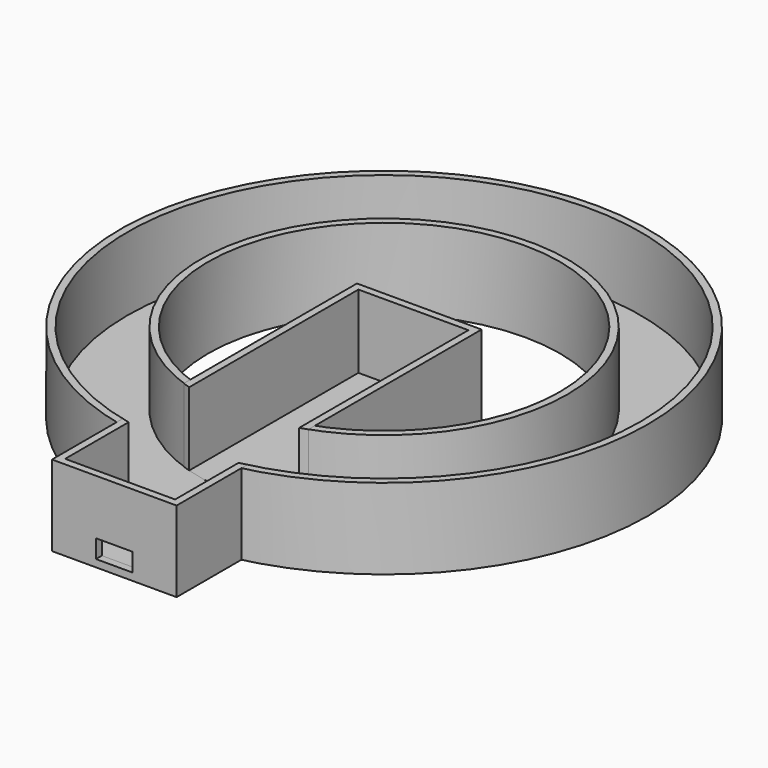
from build123d import *

# Parameters (mm, degrees)
F0_R        = 72
F0_R_2      = 70
F1_DEPTH    = 22
F0_R_3      = 50
F0_R_4      = 48
F2_R        = 70
F2_R_2      = 50
F3_DEPTH    = 2
F4_W        = 34
F4_H        = 104
F4_W_2      = 30
F4_H_2      = 100
F5_DEPTH    = 22
F6_W        = 30
F6_H        = 100
F7_DEPTH    = 2
F8_W        = 30
F8_H        = 20
F9_DEPTH    = 75
F10_W       = 10
F10_H       = 5
F11_DEPTH   = 100
F12_R       = 70
F12_R_2     = 50
F3_FACE_R   = 70
F3_FACE_R_2 = 50
F13_DEPTH   = 25
F14_R       = 70
F14_R_2     = 50
F15_DEPTH   = 2


with BuildPart() as f1:
    # F0 (on Top) → F1 (new body)
    with BuildSketch(Plane.XY):
        Circle(F0_R)
        Circle(F0_R_2, mode=Mode.SUBTRACT)
    extrude(amount=F1_DEPTH)


with BuildPart() as f1b:
    # F0 (on Top) → F1, piece 2 (new body)
    with BuildSketch(Plane.XY):
        Circle(F0_R_3)
        Circle(F0_R_4, mode=Mode.SUBTRACT)
    extrude(amount=F1_DEPTH)


with BuildPart() as f3:
    # F2 (on Top) → F3 (new body)
    with BuildSketch(Plane.XY):
        Circle(F2_R)
        Circle(F2_R_2, mode=Mode.SUBTRACT)
    extrude(amount=F3_DEPTH)


with BuildPart() as f5:
    # F4 (on Top) → F5 (new body)
    with BuildSketch(Plane.XY):
        with Locations((0, -40)):
            Rectangle(F4_W, F4_H)
        with Locations((0, -40)):
            Rectangle(F4_W_2, F4_H_2, mode=Mode.SUBTRACT)
    extrude(amount=F5_DEPTH)

    # F10 (on Front) → F11 (cut)
    with BuildSketch(Plane.XZ):
        with Locations((0, 4.5)):
            Rectangle(F10_W, F10_H)
    extrude(amount=F11_DEPTH, mode=Mode.SUBTRACT)


with BuildPart() as f7:
    # F6 (on Top) → F7 (new body)
    with BuildSketch(Plane.XY):
        with Locations((0, -40)):
            Rectangle(F6_W, F6_H)
    extrude(amount=F7_DEPTH)


with BuildPart() as f9_tool:
    # F8 (on Front) → F9 (new body)
    with BuildSketch(Plane.XZ):
        with Locations((0, 12)):
            Rectangle(F8_W, F8_H)
    extrude(amount=F9_DEPTH)


with BuildPart() as f1_1:
    add(f1.part)

    # F9: cut by f9_tool
    add(f9_tool.part, mode=Mode.SUBTRACT)


with BuildPart() as f1b_1:
    add(f1b.part)

    # F9: cut by f9_tool
    add(f9_tool.part, mode=Mode.SUBTRACT)


with BuildPart() as f13_tool:
    # F12 (on Top) + F3_face (on face) → F13 (new body)
    with BuildSketch(Plane.XY):
        Circle(F12_R)
        Circle(F12_R_2, mode=Mode.SUBTRACT)
    with BuildSketch(Plane.XY.offset(2)):
        Circle(F3_FACE_R)
        Circle(F3_FACE_R_2, mode=Mode.SUBTRACT)
    extrude(amount=F13_DEPTH)


with BuildPart() as f3_1:
    add(f3.part)

    # F13: cut by f13_tool
    add(f13_tool.part, mode=Mode.SUBTRACT)


with BuildPart() as f5_1:
    add(f5.part)

    # F13: cut by f13_tool
    add(f13_tool.part, mode=Mode.SUBTRACT)


with BuildPart() as f7_1:
    add(f7.part)

    # F13: cut by f13_tool
    add(f13_tool.part, mode=Mode.SUBTRACT)


with BuildPart() as f15:
    # F14 (on Top) → F15 (new body)
    with BuildSketch(Plane.XY):
        Circle(F14_R)
        Circle(F14_R_2, mode=Mode.SUBTRACT)
    extrude(amount=F15_DEPTH)


solid = Compound([f1_1.part, f1b_1.part, f5_1.part, f7_1.part, f15.part])
